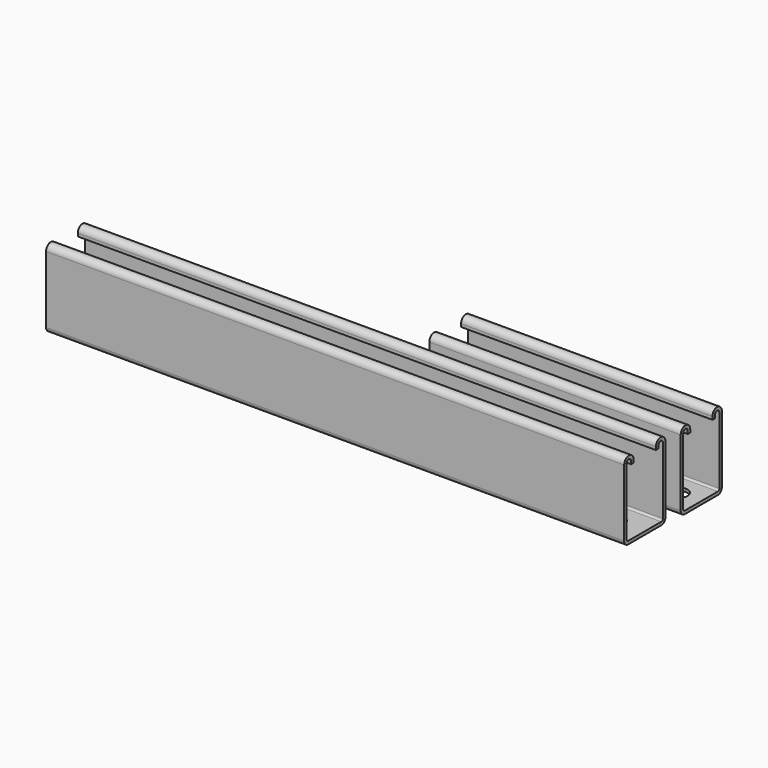
from build123d import *

# Parameters (mm, degrees)
F1_DEPTH = 200
F3_DEPTH = 25
F5_DEPTH = 460
F7_DEPTH = 25


with BuildPart() as f1:
    # F0 (on Right) → F1 (new body)
    with BuildSketch(Plane.YZ):
        with BuildLine():
            Line((0, 57.25), (0, 4))
            ThreePointArc((0, 4), (1.171573, 1.171573), (4, 0))
            Line((4, 0), (37, 0))
            ThreePointArc((37, 0), (39.828427, 1.171573), (41, 4))
            Line((41, 4), (41, 57.25))
            ThreePointArc((41, 57.25), (36.281579, 61.968421), (31.563158, 57.25))
            Line((31.563158, 57.25), (31.563158, 54.9))
            Line((31.563158, 54.9), (34.063158, 54.9))
            Line((34.063158, 54.9), (34.063158, 57.25))
            ThreePointArc((34.063158, 57.25), (36.281579, 59.468421), (38.5, 57.25))
            Line((38.5, 57.25), (38.5, 4))
            ThreePointArc((38.5, 4), (38.06066, 2.93934), (37, 2.5))
            Line((37, 2.5), (4, 2.5))
            ThreePointArc((4, 2.5), (2.93934, 2.93934), (2.5, 4))
            Line((2.5, 4), (2.5, 57.25))
            ThreePointArc((2.5, 57.25), (4.75, 59.5), (7, 57.25))
            Line((7, 57.25), (7, 54.9))
            Line((7, 54.9), (9.5, 54.9))
            Line((9.5, 54.9), (9.5, 57.25))
            ThreePointArc((9.5, 57.25), (4.75, 62), (0, 57.25))
        make_face()
    extrude(amount=-F1_DEPTH)

    # F2 (on face) → F3 (cut)
    with BuildSketch(Plane(origin=(0, 0, 0), x_dir=(1, 0, 0), z_dir=(0, 0, -1))):
        with BuildLine():
            ThreePointArc((-118, -27.5), (-111, -20.5), (-118, -13.5))
            Line((-118, -13.5), (-132, -13.5))
            ThreePointArc((-132, -13.5), (-139, -20.5), (-132, -27.5))
            Line((-132, -27.5), (-118, -27.5))
        make_face()
        with BuildLine():
            Line((-82, -27.5), (-68, -27.5))
            ThreePointArc((-68, -27.5), (-61, -20.5), (-68, -13.5))
            Line((-68, -13.5), (-82, -13.5))
            ThreePointArc((-82, -13.5), (-89, -20.5), (-82, -27.5))
        make_face()
        with BuildLine():
            Line((-32, -27.5), (-18, -27.5))
            ThreePointArc((-18, -27.5), (-11, -20.5), (-18, -13.5))
            Line((-18, -13.5), (-32, -13.5))
            ThreePointArc((-32, -13.5), (-39, -20.5), (-32, -27.5))
        make_face()
        with BuildLine():
            Line((-181.994144, -27.5), (-167.994144, -27.5))
            ThreePointArc((-167.994144, -27.5), (-160.994144, -20.5), (-167.994144, -13.5))
            Line((-167.994144, -13.5), (-181.994144, -13.5))
            ThreePointArc((-181.994144, -13.5), (-188.994144, -20.5), (-181.994144, -27.5))
        make_face()
    extrude(amount=-F3_DEPTH, mode=Mode.SUBTRACT)


with BuildPart() as f5:
    # F4 (on Right) → F5 (new body)
    with BuildSketch(Plane.YZ):
        with BuildLine():
            Line((-56.22559, 58.95), (-56.22559, 5.7))
            ThreePointArc((-56.22559, 5.7), (-55.054018, 2.871573), (-52.22559, 1.7))
            Line((-52.22559, 1.7), (-19.22559, 1.7))
            ThreePointArc((-19.22559, 1.7), (-16.397163, 2.871573), (-15.22559, 5.7))
            Line((-15.22559, 5.7), (-15.22559, 58.95))
            ThreePointArc((-15.22559, 58.95), (-19.944011, 63.668421), (-24.662433, 58.95))
            Line((-24.662433, 58.95), (-24.662433, 56.6))
            Line((-24.662433, 56.6), (-22.162433, 56.6))
            Line((-22.162433, 56.6), (-22.162433, 58.95))
            ThreePointArc((-22.162433, 58.95), (-19.944011, 61.168421), (-17.72559, 58.95))
            Line((-17.72559, 58.95), (-17.72559, 5.7))
            ThreePointArc((-17.72559, 5.7), (-18.16493, 4.63934), (-19.22559, 4.2))
            Line((-19.22559, 4.2), (-52.22559, 4.2))
            ThreePointArc((-52.22559, 4.2), (-53.286251, 4.63934), (-53.72559, 5.7))
            Line((-53.72559, 5.7), (-53.72559, 58.95))
            ThreePointArc((-53.72559, 58.95), (-51.47559, 61.2), (-49.22559, 58.95))
            Line((-49.22559, 58.95), (-49.22559, 56.6))
            Line((-49.22559, 56.6), (-46.72559, 56.6))
            Line((-46.72559, 56.6), (-46.72559, 58.95))
            ThreePointArc((-46.72559, 58.95), (-51.47559, 63.7), (-56.22559, 58.95))
        make_face()
    extrude(amount=-F5_DEPTH)

    # F6 (on face) → F7 (cut)
    with BuildSketch(Plane(origin=(0, 0, 1.7), x_dir=(1, 0, 0), z_dir=(0, 0, -1))):
        with BuildLine():
            Line((-37, 28.72559), (-23, 28.72559))
            ThreePointArc((-23, 28.72559), (-16, 35.72559), (-23, 42.72559))
            Line((-23, 42.72559), (-37, 42.72559))
            ThreePointArc((-37, 42.72559), (-44, 35.72559), (-37, 28.72559))
        make_face()
        with BuildLine():
            Line((-73, 42.72559), (-87, 42.72559))
            ThreePointArc((-87, 42.72559), (-94, 35.72559), (-87, 28.72559))
            Line((-87, 28.72559), (-73, 28.72559))
            ThreePointArc((-73, 28.72559), (-66, 35.72559), (-73, 42.72559))
        make_face()
        with BuildLine():
            Line((-123, 42.72559), (-137, 42.72559))
            ThreePointArc((-137, 42.72559), (-144, 35.72559), (-137, 28.72559))
            Line((-137, 28.72559), (-123, 28.72559))
            ThreePointArc((-123, 28.72559), (-116, 35.72559), (-123, 42.72559))
        make_face()
        with BuildLine():
            Line((-173, 42.72559), (-187, 42.72559))
            ThreePointArc((-187, 42.72559), (-194, 35.72559), (-187, 28.72559))
            Line((-187, 28.72559), (-173, 28.72559))
            ThreePointArc((-173, 28.72559), (-166, 35.72559), (-173, 42.72559))
        make_face()
        with BuildLine():
            Line((-223, 42.72559), (-237, 42.72559))
            ThreePointArc((-237, 42.72559), (-244, 35.72559), (-237, 28.72559))
            Line((-237, 28.72559), (-223, 28.72559))
            ThreePointArc((-223, 28.72559), (-216, 35.72559), (-223, 42.72559))
        make_face()
        with BuildLine():
            Line((-273, 42.72559), (-287, 42.72559))
            ThreePointArc((-287, 42.72559), (-294, 35.72559), (-287, 28.72559))
            Line((-287, 28.72559), (-273, 28.72559))
            ThreePointArc((-273, 28.72559), (-266, 35.72559), (-273, 42.72559))
        make_face()
        with BuildLine():
            Line((-323, 42.72559), (-337, 42.72559))
            ThreePointArc((-337, 42.72559), (-344, 35.72559), (-337, 28.72559))
            Line((-337, 28.72559), (-323, 28.72559))
            ThreePointArc((-323, 28.72559), (-316, 35.72559), (-323, 42.72559))
        make_face()
        with BuildLine():
            Line((-373, 42.72559), (-387, 42.72559))
            ThreePointArc((-387, 42.72559), (-394, 35.72559), (-387, 28.72559))
            Line((-387, 28.72559), (-373, 28.72559))
            ThreePointArc((-373, 28.72559), (-366, 35.72559), (-373, 42.72559))
        make_face()
        with BuildLine():
            Line((-423, 42.72559), (-437, 42.72559))
            ThreePointArc((-437, 42.72559), (-444, 35.72559), (-437, 28.72559))
            Line((-437, 28.72559), (-423, 28.72559))
            ThreePointArc((-423, 28.72559), (-416, 35.72559), (-423, 42.72559))
        make_face()
    extrude(amount=-F7_DEPTH, mode=Mode.SUBTRACT)


solid = Compound([f1.part, f5.part])
